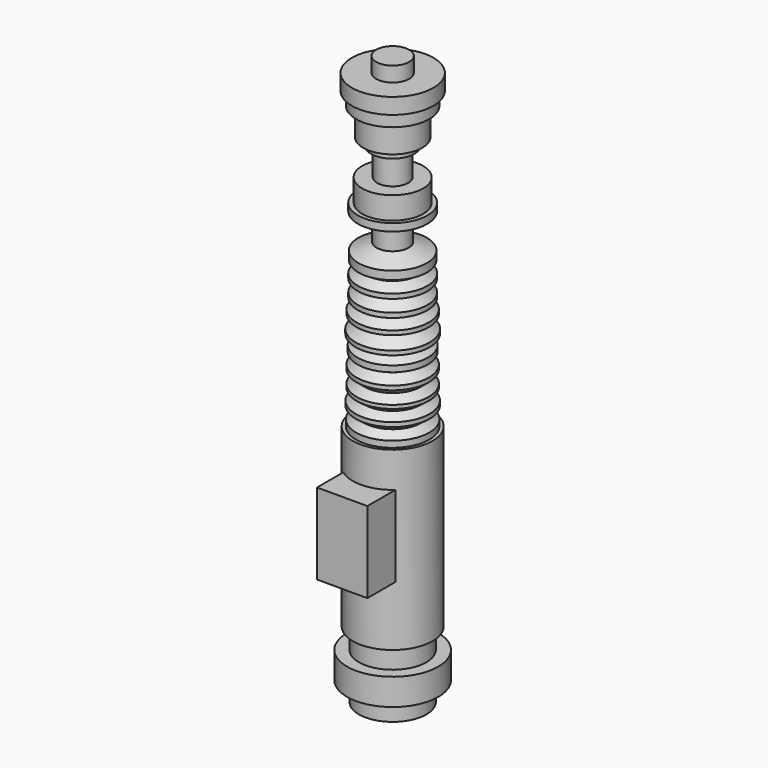
from build123d import *

# Parameters (mm, degrees)
F3_W = 14.7913554683
F3_H = 23.8305181265


with BuildPart() as f1:
    # F0 (on Front) → F1 (revolve)
    with BuildSketch(Plane.XZ):
        Polygon((4.8528290354, 178.7342578173), (0, 178.7342578173), (0, 11.5395411849), (9.9163651466, 11.5395411849), (9.9163651466, 17.1984750777), (13.3987879381, 17.1984750777), (13.3987879381, 25.033922866), (9.9163651466, 25.033922866), (9.9163651466, 31.0871936381), (11.720889248, 31.0871936381), (11.720889248, 82.899287343), (10.7513619587, 82.899287343), (10.7513619587, 84.741383791), (8.4244990721, 86.4865332842), (10.848316364, 88.3286297321), (10.848316364, 89.5890146494), (8.2806209102, 91.1402627826), (10.6115210801, 92.8854048252), (10.6115210801, 93.9414720115), (8.2806209102, 95.7816541195), (10.6115210801, 97.7012142539), (10.6115210801, 98.9352241158), (8.0063985661, 100.991897285), (10.337295942, 102.2258996964), (10.337295942, 104.0083542466), (7.7321734279, 105.516590178), (10.8857434243, 106.8877056241), (10.8857434243, 108.1217080355), (7.5950622559, 110.4526072741), (10.6115210801, 111.9608357549), (10.6115210801, 113.1948456168), (7.8692846, 114.9773001671), (10.2001847699, 116.2113025784), (10.2001847699, 117.5824180245), (7.8692846, 120.0504302979), (10.2001847699, 121.1473271251), (10.2001847699, 122.5184425712), (7.3893943336, 124.3008971214), (10.0630735978, 125.946238637), (10.0630735978, 128.3799740454), (4.7157150693, 130.6080371141), (4.7157150693, 136.9151771069), (6.635278929, 136.9151771069), (6.635278929, 138.5605186224), (10.2001847699, 138.5605186224), (10.2001847699, 140.7542973757), (8.9661795646, 140.7542973757), (8.9661795646, 147.3356634378), (4.5786038972, 147.3356634378), (4.5786038972, 155.4252654314), (6.3610565849, 155.4252654314), (6.3610565849, 157.75616467), (8.6919572204, 157.75616467), (8.6919572204, 165.8457517624), (10.7486322522, 165.8457517624), (10.7486322522, 169.6848869324), (11.9826374575, 169.6848869324), (11.9826374575, 174.3466854095), (4.8528290354, 174.3466854095), align=None)
    revolve(axis=Axis((0, 0, 116.0148456693), (0, 0, -1)))

    # F3 (on offset) → F4 (join, up to the next surface of F1)
    with BuildSketch(Plane.XZ.offset(19.05)):
        with Locations((0.4108776338, 60.6034696102)):
            Rectangle(F3_W, F3_H)
    extrude(until=Until.NEXT, dir=(0, 1, 0))


solid = f1.part
